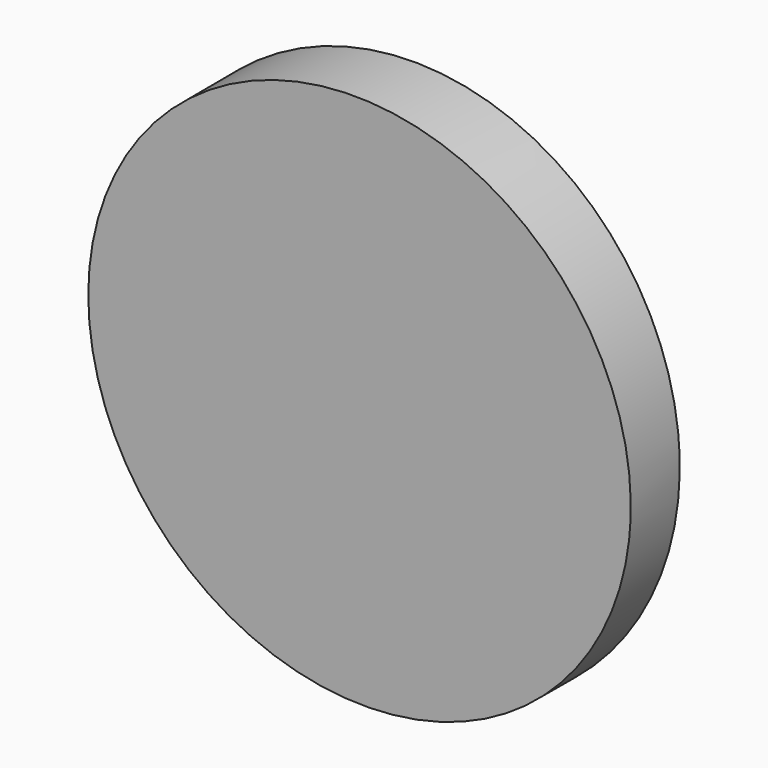
from build123d import *

# Parameters (mm, degrees)
CYLINDER001_R     = 62
CYLINDER001_DEPTH = 24
PAD004_DEPTH      = 128


with BuildPart() as cylinder001:
    # Cylinder001 → Cylinder001 (new body)
    with BuildSketch(Plane.XZ.offset(-12)):
        Circle(CYLINDER001_R)
    extrude(amount=CYLINDER001_DEPTH)


with BuildPart() as body004:
    # Sketch004 → Pad004 (new body)
    with BuildSketch(Plane.YZ):
        Polygon((0, 0), (12, 0), (5, -294), (0, -294), align=None)
    extrude(amount=PAD004_DEPTH)


with BuildPart() as body004_1:
    # Body004 placement: moved
    add(body004.part.moved(Location((0, 0, 210))))


with BuildPart() as obj1:
    # Part__Mirroring007: instance of Body004
    add(body004_1.part.mirror(Plane(origin=(0, 0, 0), x_dir=(1, 0, 0), z_dir=(0, 1, 0))))

    # Fusion015: union Body004
    add(body004_1.part)


with BuildPart() as obj1_1:
    # Fusion015 placement: moved
    add(obj1.part.moved(Location((-64, 0, 0))))

    # Common001: intersect Cylinder001
    add(cylinder001.part, mode=Mode.INTERSECT)


solid = obj1_1.part
